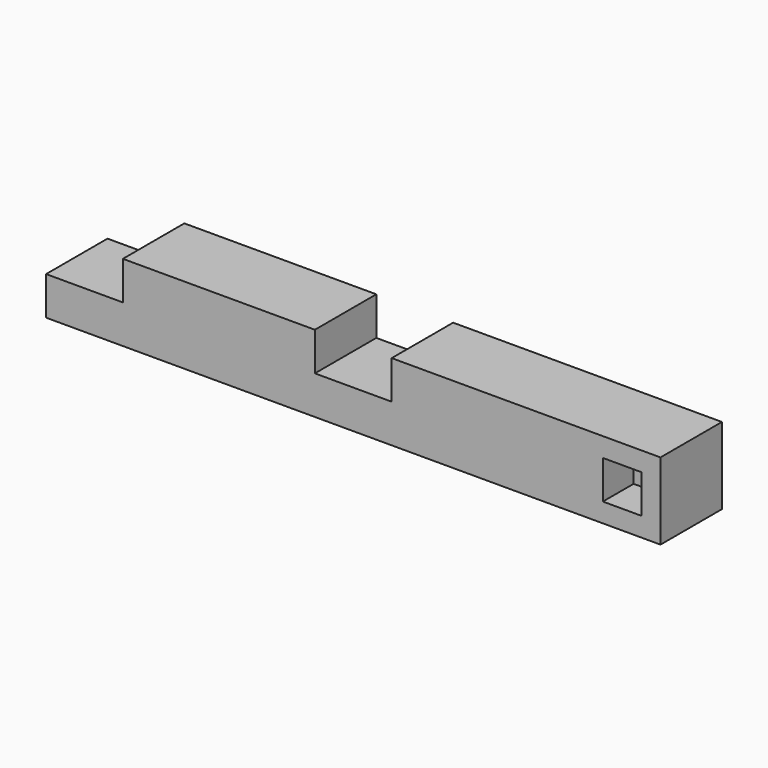
from build123d import *

# Parameters (mm, degrees)
F0_W     = 304.8
F0_H     = 38.1
F1_DEPTH = 19.05
F2_W     = 38.1
F2_H     = 38.1
F3_DEPTH = 19.05
F4_W     = 19.05
F4_H     = 19.05
F5_DEPTH = 19.05
F6_W     = 38.1
F6_H     = 38.1
F7_DEPTH = 19.05


with BuildPart() as f1:
    # F0 (on Top) → F1 (new body, symmetric)
    with BuildSketch(Plane.XY):
        Rectangle(F0_W, F0_H)
    extrude(amount=F1_DEPTH, both=True)

    # F2 (on Top) → F3 (cut)
    with BuildSketch(Plane.XY):
        Rectangle(F2_W, F2_H)
    extrude(amount=F3_DEPTH, mode=Mode.SUBTRACT)

    # F4 (on face) → F5 (cut)
    with BuildSketch(Plane.XZ.offset(19.05)):
        with Locations((133.35, 0)):
            Rectangle(F4_W, F4_H)
    extrude(amount=-F5_DEPTH, mode=Mode.SUBTRACT)

    # F6 (on face) → F7 (cut)
    with BuildSketch(Plane.XY.offset(19.05)):
        with Locations((-133.35, 0)):
            Rectangle(F6_W, F6_H)
    extrude(amount=-F7_DEPTH, mode=Mode.SUBTRACT)


solid = f1.part
